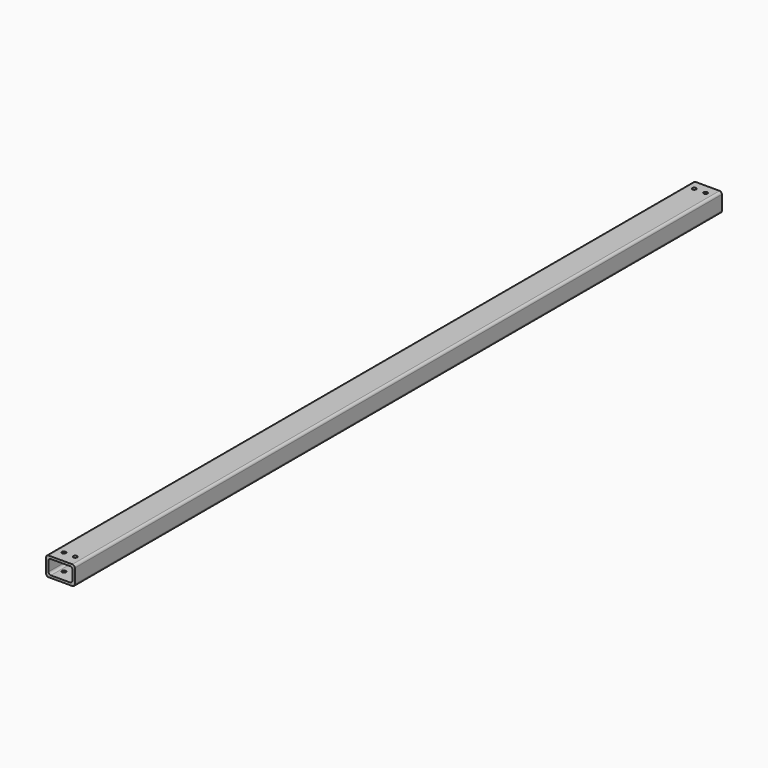
from build123d import *

# Parameters (mm, degrees)
F1_DEPTH = 2146.44
F2_R     = 5
F3_DEPTH = 50.801


with BuildPart() as f1:
    # F0 (on Front) → F1 (new body)
    with BuildSketch(Plane.XZ):
        with BuildLine():
            Line((34.57679, 22.521819), (-28.92321, 22.521819))
            ThreePointArc((-28.92321, 22.521819), (-33.413338, 20.661947), (-35.27321, 16.171819))
            Line((-35.27321, 16.171819), (-35.27321, -21.928181))
            ThreePointArc((-35.27321, -21.928181), (-33.413338, -26.41831), (-28.92321, -28.278181))
            Line((-28.92321, -28.278181), (34.57679, -28.278181))
            ThreePointArc((34.57679, -28.278181), (39.066918, -26.41831), (40.92679, -21.928181))
            Line((40.92679, -21.928181), (40.92679, 16.171819))
            ThreePointArc((40.92679, 16.171819), (39.066918, 20.661947), (34.57679, 22.521819))
        make_face()
        with BuildLine():
            ThreePointArc((-28.92321, 9.821819), (-27.063338, 14.311947), (-22.57321, 16.171819))
            Line((-22.57321, 16.171819), (28.22679, 16.171819))
            ThreePointArc((28.22679, 16.171819), (32.716918, 14.311947), (34.57679, 9.821819))
            Line((34.57679, 9.821819), (34.57679, -15.578181))
            ThreePointArc((34.57679, -15.578181), (32.716918, -20.06831), (28.22679, -21.928181))
            Line((28.22679, -21.928181), (-22.57321, -21.928181))
            ThreePointArc((-22.57321, -21.928181), (-27.063338, -20.06831), (-28.92321, -15.578181))
            Line((-28.92321, -15.578181), (-28.92321, 9.821819))
        make_face(mode=Mode.SUBTRACT)
    extrude(amount=F1_DEPTH)

    # F2 (on face) → F3 (cut, through all)
    with BuildSketch(Plane(origin=(0, 0, -28.278181), x_dir=(1, 0, 0), z_dir=(0, 0, -1))):
        with Locations((17.82679, 2116.04)):
            Circle(F2_R)
        with Locations((-12.17321, 2116.04)):
            Circle(F2_R)
        with Locations((17.82679, 25.4)):
            Circle(F2_R)
        with Locations((-12.17321, 25.4)):
            Circle(F2_R)
    extrude(amount=-F3_DEPTH, mode=Mode.SUBTRACT)


solid = f1.part
